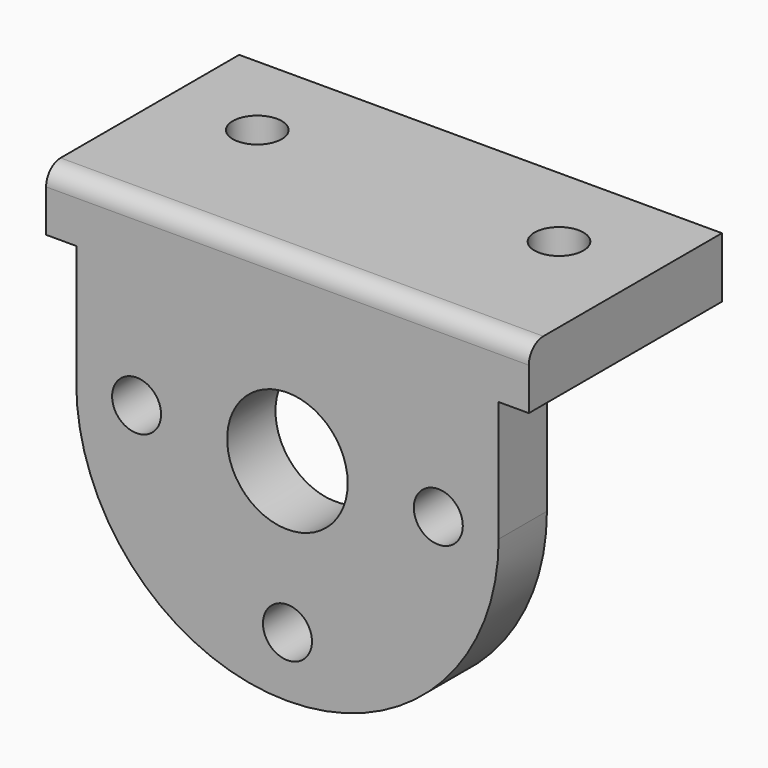
from build123d import *

# Parameters (mm, degrees)
F1_DEPTH = 12.7
F2_W     = 101.6
F2_H     = 50.8
F3_DEPTH = 12.7
F4_R     = 12.68349
F5_DEPTH = 25.4
F6_R     = 5.1562
F7_DEPTH = 25.4
F8_R     = 5.1562
F9_DEPTH = 25.4
F10_R    = 3.81


with BuildPart() as f1:
    # F0 (on Front) → F1 (new body)
    with BuildSketch(Plane.XZ):
        with BuildLine():
            Line((-44.45, 25.4), (-44.45, 0))
            ThreePointArc((-44.45, 0), (0, -44.45), (44.45, 0))
            Line((44.45, 0), (44.45, 25.4))
            Line((44.45, 25.4), (-44.45, 25.4))
        make_face()
    extrude(amount=F1_DEPTH)

    # F2 (on face) → F3 (join)
    with BuildSketch(Plane.XY.offset(25.4)):
        with Locations((0, 12.7)):
            Rectangle(F2_W, F2_H)
    extrude(amount=F3_DEPTH)

    # F4 (on face) → F5 (cut)
    with BuildSketch(Plane.XZ.offset(12.7)):
        Circle(F4_R)
    extrude(amount=-F5_DEPTH, mode=Mode.SUBTRACT)

    # F6 (on face) → F7 (cut)
    with BuildSketch(Plane.XZ.offset(12.7)):
        with Locations((0, -31.75)):
            Circle(F6_R)
        with Locations((-31.75, 0)):
            Circle(F6_R)
        with Locations((31.75, 0)):
            Circle(F6_R)
    extrude(amount=-F7_DEPTH, mode=Mode.SUBTRACT)

    # F8 (on face) → F9 (cut)
    with BuildSketch(Plane.XY.offset(38.1)):
        with Locations((-31.75, 19.05)):
            Circle(F8_R)
        with Locations((31.75, 19.05)):
            Circle(F8_R)
    extrude(amount=-F9_DEPTH, mode=Mode.SUBTRACT)

    # F10
    f10_edges = [f1.edges().sort_by_distance(p)[0] for p in [
        (0, 0, 25.4),
        (0, -12.7, 38.1),
    ]]
    fillet(f10_edges, radius=F10_R)


solid = f1.part
